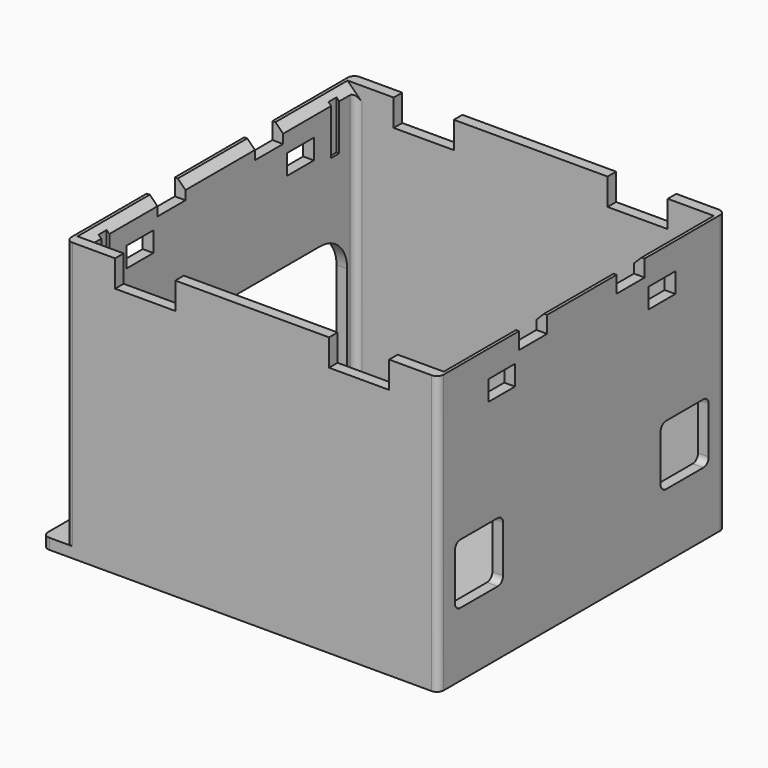
from build123d import *

# Parameters (mm, degrees)
SKETCH034_W          = 59.2
SKETCH034_H          = 53.7
SKETCH034_R          = 1.75
PAD011_DEPTH         = 1.6
SKETCH032_W          = 55.7
SKETCH032_H          = 53.7
SKETCH032_W_2        = 52.5
SKETCH032_H_2        = 50.5
PAD010_DEPTH         = 40
CHAMFER001_SIZE      = 1.15
FILLET004_R          = 1
SKETCH033_W          = 5
SKETCH033_H          = 3
SKETCH033_W_2        = 5.25
SKETCH033_H_2        = 2.5
POCKET007_DEPTH      = 31.351
POCKET007_DEPTH_BACK = 27.851
POCKET_DEPTH         = 31.351
POCKET041_DEPTH      = 27.851
SKETCH030_W          = 9
SKETCH030_H          = 4
POCKET009_DEPTH      = 26.851
POCKET009_DEPTH_BACK = 26.851
SKETCH029_R          = 3.2
PAD009_DEPTH         = 2.2
SKETCH050_R          = 1.75
POCKET015_DEPTH      = 3.801
SKETCH036_W          = 0.4
SKETCH036_H          = 1.5
POCKET008_DEPTH      = 8


with BuildPart() as part:
    # Sketch034 → Pad011 (new body)
    with BuildSketch(Plane.XY):
        with Locations((-1.75, 0)):
            Rectangle(SKETCH034_W, SKETCH034_H)
        with Locations((19.652, 0)):
            Circle(SKETCH034_R, mode=Mode.SUBTRACT)
    extrude(amount=PAD011_DEPTH)

    # Sketch032 → Pad010 (join)
    with BuildSketch(Plane.XY.offset(1.6)):
        Rectangle(SKETCH032_W, SKETCH032_H)
        Rectangle(SKETCH032_W_2, SKETCH032_H_2, mode=Mode.SUBTRACT)
    extrude(amount=PAD010_DEPTH)

    # Chamfer001
    chamfer001_edges = [part.edges().sort_by_distance(p)[0] for p in [
        (26.25, 0, 41.6),
        (-26.25, 0, 41.6),
    ]]
    chamfer(chamfer001_edges, length=CHAMFER001_SIZE)

    # Fillet004
    fillet004_edges = [part.edges().sort_by_distance(p)[0] for p in [
        (26.25, -25.25, 21.025),
        (-26.25, -25.25, 21.025),
        (27.85, -26.85, 21.6),
        (-26.25, 25.25, 21.025),
        (-27.85, -26.85, 21.6),
        (26.25, 25.25, 21.025),
        (0, -25.25, 1.6),
        (0, 25.25, 1.6),
        (-27.85, 26.85, 21.6),
        (27.85, 26.85, 21.6),
        (-26.25, 0, 1.6),
        (26.25, 0, 1.6),
        (-31.35, -26.85, 0.8),
        (-31.35, 26.85, 0.8),
    ]]
    fillet(fillet004_edges, radius=FILLET004_R)

    # Sketch033 → Pocket007 (cut, two sides)
    with BuildSketch(Plane.YZ) as pocket007_sk:
        with Locations((-15, 36.1)):
            Rectangle(SKETCH033_W, SKETCH033_H)
        with Locations((15, 36.1)):
            Rectangle(SKETCH033_W, SKETCH033_H)
        with Locations((-9.125, 40.35)):
            Rectangle(SKETCH033_W_2, SKETCH033_H_2)
        with Locations((9.125, 40.35)):
            Rectangle(SKETCH033_W_2, SKETCH033_H_2)
    extrude(amount=-POCKET007_DEPTH, mode=Mode.SUBTRACT)
    extrude(pocket007_sk.sketch, amount=POCKET007_DEPTH_BACK, mode=Mode.SUBTRACT)

    # Sketch109 → Pocket (cut, through all)
    with BuildSketch(Plane.YZ):
        with BuildLine():
            Line((-23.733, 17.8), (-23.733, 1.6))
            Line((-23.733, 1.6), (23.733, 1.6))
            Line((23.733, 1.6), (23.733, 17.8))
            ThreePointArc((23.733, 17.8), (22.268534, 21.335534), (18.733, 22.8))
            Line((-18.733, 22.8), (18.733, 22.8))
            ThreePointArc((-18.733, 22.8), (-22.268534, 21.335534), (-23.733, 17.8))
        make_face()
    extrude(amount=-POCKET_DEPTH, mode=Mode.SUBTRACT)

    # Sketch110 → Pocket041 (cut, through all)
    with BuildSketch(Plane.YZ):
        with BuildLine():
            Line((-22.733, 18.6), (-15.733, 18.6))
            ThreePointArc((-14.733, 17.6), (-15.025893, 18.307107), (-15.733, 18.6))
            Line((-14.733, 17.6), (-14.733, 10.6))
            ThreePointArc((-15.733, 9.6), (-15.025893, 9.892893), (-14.733, 10.6))
            Line((-15.733, 9.6), (-22.733, 9.6))
            ThreePointArc((-23.733, 10.6), (-23.440107, 9.892893), (-22.733, 9.6))
            Line((-23.733, 10.6), (-23.733, 17.6))
            ThreePointArc((-22.733, 18.6), (-23.440107, 18.307107), (-23.733, 17.6))
        make_face()
        with BuildLine():
            Line((22.733, 18.6), (15.733, 18.6))
            ThreePointArc((15.733, 18.6), (15.025893, 18.307107), (14.733, 17.6))
            Line((14.733, 17.6), (14.733, 10.6))
            ThreePointArc((14.733, 10.6), (15.025893, 9.892893), (15.733, 9.6))
            Line((15.733, 9.6), (22.733, 9.6))
            ThreePointArc((22.733, 9.6), (23.440107, 9.892893), (23.733, 10.6))
            Line((23.733, 10.6), (23.733, 17.6))
            ThreePointArc((23.733, 17.6), (23.440107, 18.307107), (22.733, 18.6))
        make_face()
    extrude(amount=POCKET041_DEPTH, mode=Mode.SUBTRACT)

    # Sketch030 → Pocket009 (cut, two sides)
    with BuildSketch(Plane.XZ) as pocket009_sk:
        with Locations((-16, 39.6)):
            Rectangle(SKETCH030_W, SKETCH030_H)
        with Locations((16, 39.6)):
            Rectangle(SKETCH030_W, SKETCH030_H)
    extrude(amount=-POCKET009_DEPTH, mode=Mode.SUBTRACT)
    extrude(pocket009_sk.sketch, amount=POCKET009_DEPTH_BACK, mode=Mode.SUBTRACT)

    # Sketch029 → Pad009 (join)
    with BuildSketch(Plane.XY.offset(1.6)):
        with Locations((-28.048, 15.621)):
            Circle(SKETCH029_R)
        with Locations((-15.348, 15.621)):
            Circle(SKETCH029_R)
        with Locations((-15.348, -19.431)):
            Circle(SKETCH029_R)
        with Locations((-28.048, -19.431)):
            Circle(SKETCH029_R)
    extrude(amount=PAD009_DEPTH)

    # Sketch050 → Pocket015 (cut, through all)
    with BuildSketch(Plane.XY.offset(3.8)):
        with Locations((-28.048, 15.621)):
            Circle(SKETCH050_R)
        with Locations((-15.348, 15.621)):
            Circle(SKETCH050_R)
        with Locations((-15.348, -19.431)):
            Circle(SKETCH050_R)
        with Locations((-28.048, -19.431)):
            Circle(SKETCH050_R)
    extrude(amount=-POCKET015_DEPTH, mode=Mode.SUBTRACT)

    # Sketch036 → Pocket008 (cut)
    with BuildSketch(Plane.XY.offset(41.6)):
        with Locations((-26.45, 21.5)):
            Rectangle(SKETCH036_W, SKETCH036_H)
        with Locations((26.45, 21.5)):
            Rectangle(SKETCH036_W, SKETCH036_H)
        with Locations((-26.45, -21.5)):
            Rectangle(SKETCH036_W, SKETCH036_H)
        with Locations((26.45, -21.5)):
            Rectangle(SKETCH036_W, SKETCH036_H)
    extrude(amount=-POCKET008_DEPTH, mode=Mode.SUBTRACT)


solid = part.part
